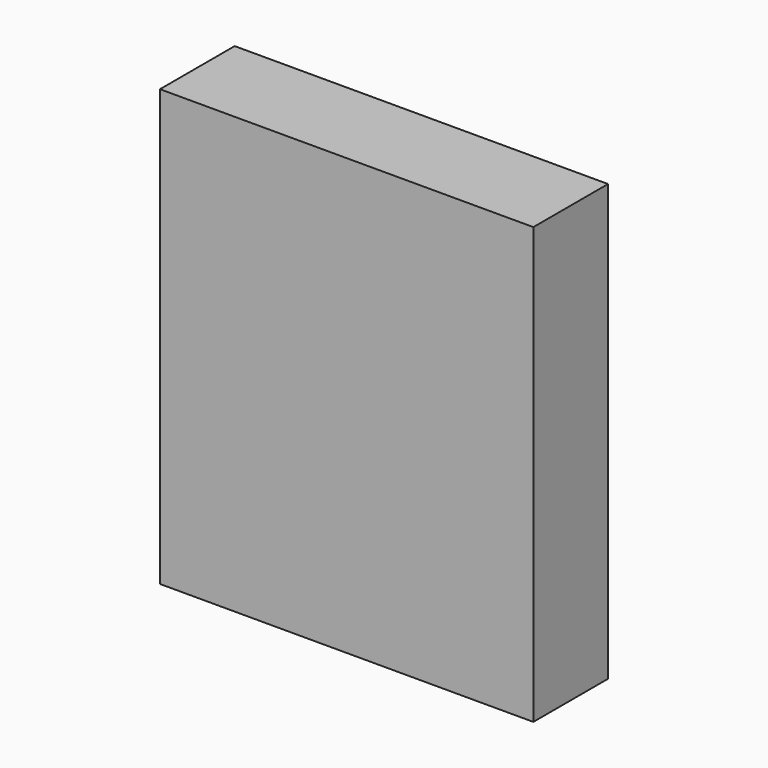
from build123d import *

# Parameters (mm, degrees)
SKETCH_W  = 76.2
SKETCH_H  = 88.9
PAD_DEPTH = 19.05


with BuildPart() as part:
    # Sketch → Pad (new body)
    with BuildSketch(Plane.XZ):
        Rectangle(SKETCH_W, SKETCH_H)
    extrude(amount=PAD_DEPTH)


solid = part.part
